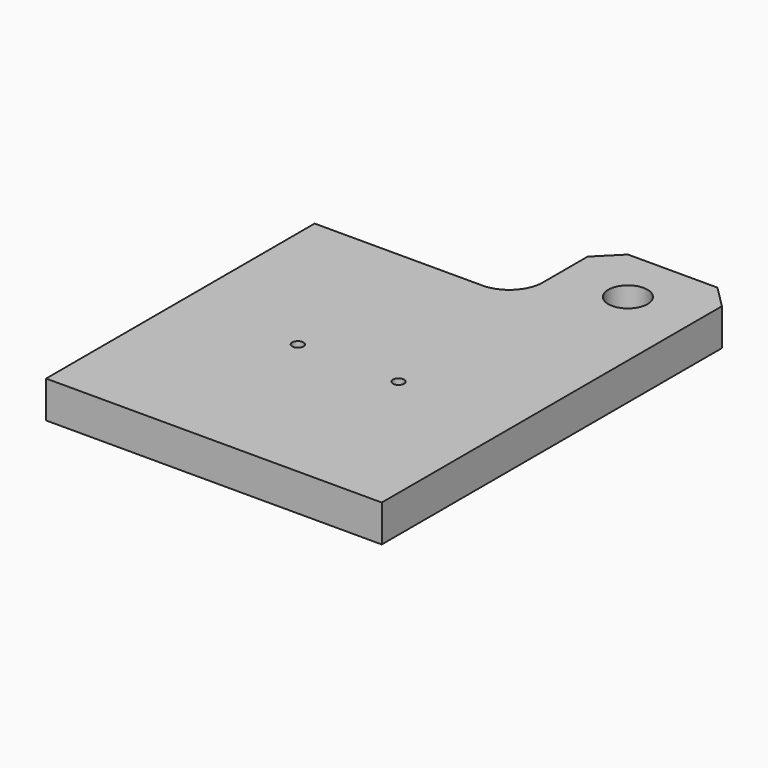
from build123d import *

# Parameters (mm, degrees)
F0_W     = 12
F0_H     = 10
F0_R     = 1.75
F1_DEPTH = 3.3
F2_SIZE  = 2
F3_R     = 3
F4_R     = 0.5
F5_DEPTH = 25


with BuildPart() as f1:
    # F0 (on Top) → F1 (new body)
    with BuildSketch(Plane.XY):
        Polygon((15, -15), (15, 15), (3, 15), (-15, 15), (-15, -15), align=None)
        with Locations((9, 20)):
            Rectangle(F0_W, F0_H)
        with Locations((9, 20)):
            Circle(F0_R, mode=Mode.SUBTRACT)
    extrude(amount=F1_DEPTH)

    # F2
    f2_edges = [f1.edges().sort_by_distance(p)[0] for p in [
        (3, 25, 1.65),
        (15, 25, 1.65),
    ]]
    chamfer(f2_edges, length=F2_SIZE)

    # F3
    f3_edges = [f1.edges().sort_by_distance(p)[0] for p in [
        (3, 15, 1.65),
    ]]
    fillet(f3_edges, radius=F3_R)

    # F4 (on face) → F5 (cut)
    with BuildSketch(Plane.XY.offset(3.3)):
        with Locations((-4.5, 0)):
            Circle(F4_R)
        with Locations((4.5, 0)):
            Circle(F4_R)
    extrude(amount=-F5_DEPTH, mode=Mode.SUBTRACT)


solid = f1.part
